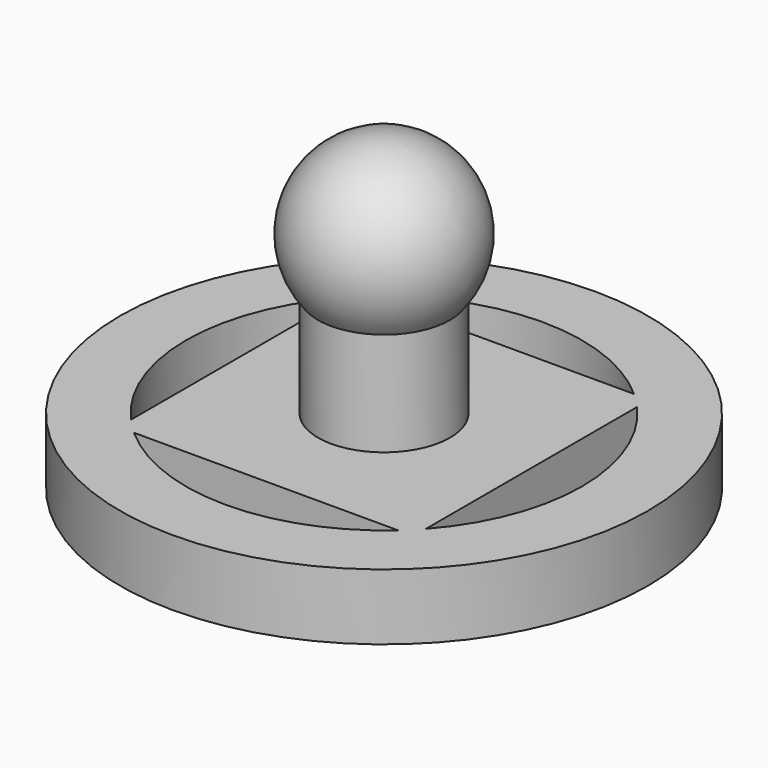
from build123d import *

# Parameters (mm, degrees)
SKETCH001_R       = 20
PAD001_DEPTH      = 5
CYLINDER012_R     = 5
CYLINDER012_DEPTH = 15


with BuildPart() as pad001:
    # Sketch001 → Pad001 (new body)
    with BuildSketch(Plane.XY):
        Circle(SKETCH001_R)
        with BuildLine():
            ThreePointArc((11.18034, -10), (15, 0), (11.18034, 10))
            Line((11.18034, 10), (11.18034, -10))
        make_face(mode=Mode.SUBTRACT)
        with BuildLine():
            ThreePointArc((-11.18034, 10), (-15, 0), (-11.18034, -10))
            Line((-11.18034, 10), (-11.18034, -10))
        make_face(mode=Mode.SUBTRACT)
        with BuildLine():
            ThreePointArc((10, 11.18034), (0, 15), (-10, 11.18034))
            Line((-10, 11.18034), (10, 11.18034))
        make_face(mode=Mode.SUBTRACT)
        with BuildLine():
            ThreePointArc((-10, -11.18034), (0, -15), (10, -11.18034))
            Line((-10, -11.18034), (10, -11.18034))
        make_face(mode=Mode.SUBTRACT)
    extrude(amount=PAD001_DEPTH)


with BuildPart() as sphere001:
    # Sphere001 → Sphere001 (revolve)
    with BuildSketch(Plane(origin=(0, 0, 17), x_dir=(1, 0, 0), z_dir=(0, -1, 0))):
        with BuildLine():
            ThreePointArc((0, -6.5), (6.5, 0), (0, 6.5))
            Line((0, 6.5), (0, -6.5))
        make_face()
    revolve(axis=Axis((0, 0, 17), (0, 0, 1)))


with BuildPart() as clone_of_piezacirculo001:
    # Cylinder012 → Cylinder012 (new body)
    with BuildSketch(Plane.XY):
        Circle(CYLINDER012_R)
    extrude(amount=CYLINDER012_DEPTH)

    # Fusion018: union Pad001, Sphere001
    add(pad001.part)
    add(sphere001.part)


with BuildPart() as clone_of_piezacirculo001_1:
    # Clone021 placement: moved
    add(clone_of_piezacirculo001.part.moved(Location((110, 110, 21.5))))


solid = clone_of_piezacirculo001_1.part
